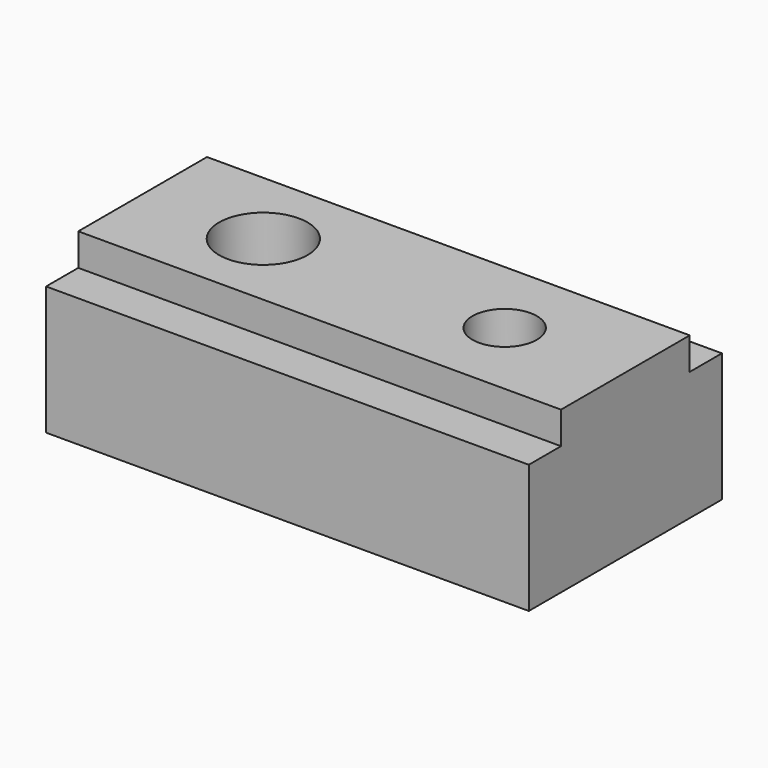
from build123d import *

# Parameters (mm, degrees)
F0_W          = 30
F0_H          = 10
F1_DEPTH      = 2
F0_H_2        = 2.5
F2_DEPTH      = 8
F3_R          = 2.75
F3_R_2        = 2
F4_DEPTH      = 25
F4_DEPTH_BACK = 25


with BuildPart() as f1:
    # F0 (on Top) → F1 (new body)
    with BuildSketch(Plane.XY):
        Rectangle(F0_W, F0_H)
    extrude(amount=F1_DEPTH)

    # F0 (on Top) → F2 (join)
    with BuildSketch(Plane.XY):
        with Locations((0, -6.25)):
            Rectangle(F0_W, F0_H_2)
        Rectangle(F0_W, F0_H)
        with Locations((0, 6.25)):
            Rectangle(F0_W, F0_H_2)
    extrude(amount=-F2_DEPTH)

    # F3 (on Top) → F4 (cut, two sides)
    with BuildSketch(Plane.XY) as f4_sk:
        with Locations((-7.5, 0)):
            Circle(F3_R)
        with Locations((7.5, 0)):
            Circle(F3_R_2)
    extrude(amount=F4_DEPTH, mode=Mode.SUBTRACT)
    extrude(f4_sk.sketch, amount=-F4_DEPTH_BACK, mode=Mode.SUBTRACT)


solid = f1.part
